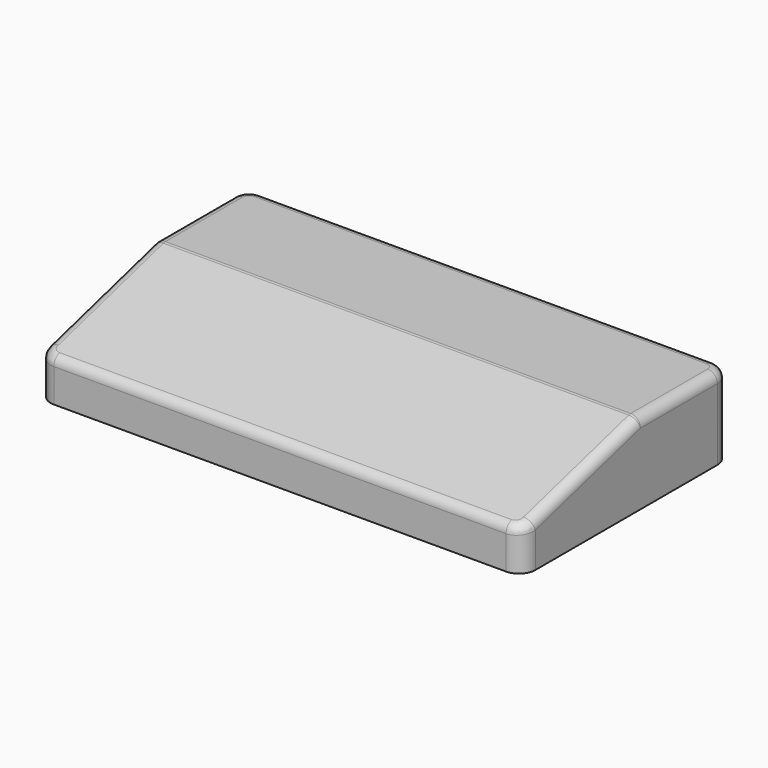
from build123d import *

# Parameters (mm, degrees)
LEFT_PALM_PAD_DEPTH        = 25
LEFT_PALM_WEDGE_DEPTH      = 5.38135
LEFT_PALM_WEDGE_DEPTH_BACK = 143.683
LEFT_PALM_FILLET_R         = 3


with BuildPart() as part:
    # Left_Palm_Base → Left_Palm_Pad (new body)
    with BuildSketch(Plane.XY.offset(-18)):
        with BuildLine():
            Line((-0.38035, -90.791), (138.682, -90.791))
            ThreePointArc((138.682, -90.791), (142.217534, -89.326534), (143.682, -85.791))
            Line((143.682, -85.791), (143.682, -15.791))
            ThreePointArc((143.682, -15.791), (142.217534, -12.255466), (138.682, -10.791))
            Line((138.682, -10.791), (-0.38035, -10.791))
            ThreePointArc((-0.38035, -10.791), (-3.915884, -12.255466), (-5.38035, -15.791))
            Line((-5.38035, -15.791), (-5.38035, -85.791))
            ThreePointArc((-5.38035, -85.791), (-3.915884, -89.326534), (-0.38035, -90.791))
        make_face()
    extrude(amount=LEFT_PALM_PAD_DEPTH)

    # Left_Palm_WedgeCut → Left_Palm_Wedge (cut, two sides)
    with BuildSketch(Plane.YZ) as left_palm_wedge_sk:
        Polygon((-45.791, 7), (-92.791, -6), (-92.791, 9), (-45.791, 9), align=None)
    extrude(amount=-LEFT_PALM_WEDGE_DEPTH, mode=Mode.SUBTRACT)
    extrude(left_palm_wedge_sk.sketch, amount=LEFT_PALM_WEDGE_DEPTH_BACK, mode=Mode.SUBTRACT)

    # Left_Palm_Fillet
    left_palm_fillet_edges = [part.edges().sort_by_distance(p)[0] for p in [
        (69.150825, -90.791, -5.446809),
        (142.249947, -89.293821, -5.032695),
        (69.150825, -45.791, 7),
        (-5.38035, -65.791, 1.468085),
        (-3.948297, -89.293821, -5.032695),
        (143.682, -65.791, 1.468085),
        (143.682, -30.791, 7),
        (142.217534, -12.255466, 7),
        (69.150825, -10.791, 7),
        (-3.915884, -12.255466, 7),
        (-5.38035, -30.791, 7),
    ]]
    fillet(left_palm_fillet_edges, radius=LEFT_PALM_FILLET_R)


solid = part.part
